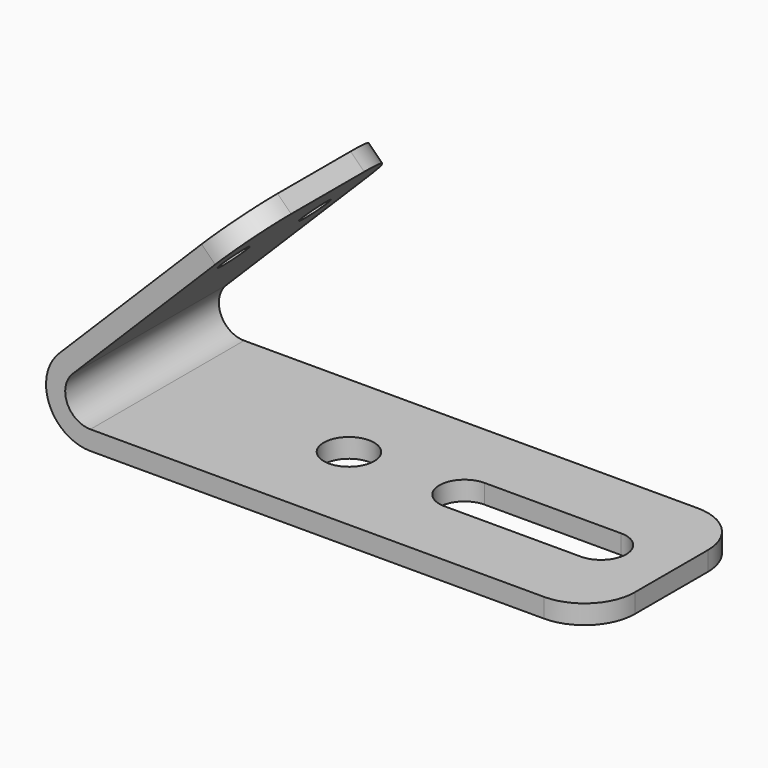
from build123d import *

# Parameters (mm, degrees)
F1_DEPTH = 19.05
F2_R     = 1.5
F3_DEPTH = 1.9
F4_R     = 2.5
F5_DEPTH = 25
F6_R     = 5


with BuildPart() as f1:
    # F0 (on Front) → F1 (new body)
    with BuildSketch(Plane.XZ):
        with BuildLine():
            Line((-50, 0), (0, 0))
            Line((0, 0), (0, 1.9))
            Line((0, 1.9), (-50, 1.9))
            ThreePointArc((-50, 1.9), (-52.3096988313, 3.4432914191), (-51.767766953, 6.167766953))
            Line((-51.767766953, 6.167766953), (-34.0900974233, 23.8454364826))
            Line((-34.0900974233, 23.8454364826), (-35.4336003076, 25.1889393669))
            Line((-35.4336003076, 25.1889393669), (-53.1112698372, 7.5112698372))
            ThreePointArc((-53.1112698372, 7.5112698372), (-54.065069943, 2.7161928976), (-50, 0))
        make_face()
    extrude(amount=-F1_DEPTH)

    # F2 (on face) → F3 (cut, through all)
    with BuildSketch(Plane(origin=(-30.3112698372, 0, 30.3112698372), x_dir=(0, -1, 0), z_dir=(-0.7071067812, 0, 0.7071067812))):
        with Locations((-14.55, -14.7440692221)):
            Circle(F2_R)
        with Locations((-4.5, -14.7440692221)):
            Circle(F2_R)
    extrude(amount=-F3_DEPTH, mode=Mode.SUBTRACT)

    # F4 (on face) → F5 (cut)
    with BuildSketch(Plane.XY.offset(1.9)):
        with BuildLine():
            Line((-7, 12.05), (-20.5371917859, 12.05))
            ThreePointArc((-20.5371917859, 12.05), (-23.0371917859, 9.55), (-20.5371917859, 7.05))
            Line((-20.5371917859, 7.05), (-7, 7.05))
            ThreePointArc((-7, 7.05), (-4.5, 9.55), (-7, 12.05))
        make_face()
        with Locations((-32, 9.55)):
            Circle(F4_R)
    extrude(amount=-F5_DEPTH, mode=Mode.SUBTRACT)

    # F6
    f6_edges = [f1.edges().sort_by_distance(p)[0] for p in [
        (-34.761849, 0, 24.517188),
        (0, 0, 0.95),
        (-34.761849, 19.05, 24.517188),
        (0, 19.05, 0.95),
    ]]
    fillet(f6_edges, radius=F6_R)


solid = f1.part
